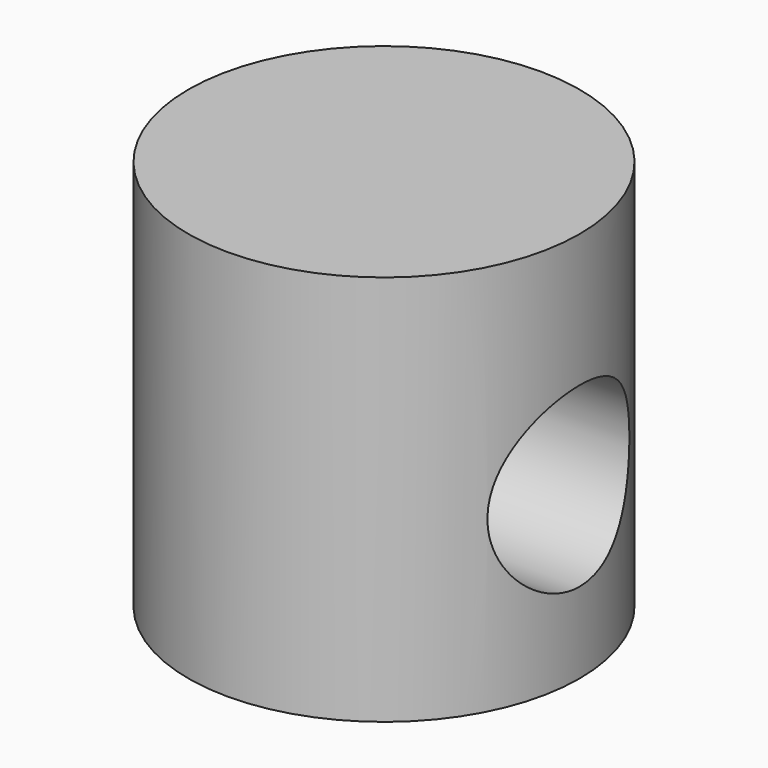
from build123d import *

# Parameters (mm, degrees)
F0_R     = 7.5
F1_DEPTH = 15
F3_R     = 3.4
F4_DEPTH = 15.001


with BuildPart() as f1:
    # F0 (on Top) → F1 (new body)
    with BuildSketch(Plane.XY):
        Circle(F0_R)
    extrude(amount=-F1_DEPTH)

    # F3 (on offset) → F4 (cut, through all)
    with BuildSketch(Plane.YZ.offset(7.5)):
        with Locations((0, -8.5)):
            Circle(F3_R)
    extrude(amount=-F4_DEPTH, mode=Mode.SUBTRACT)


solid = f1.part
